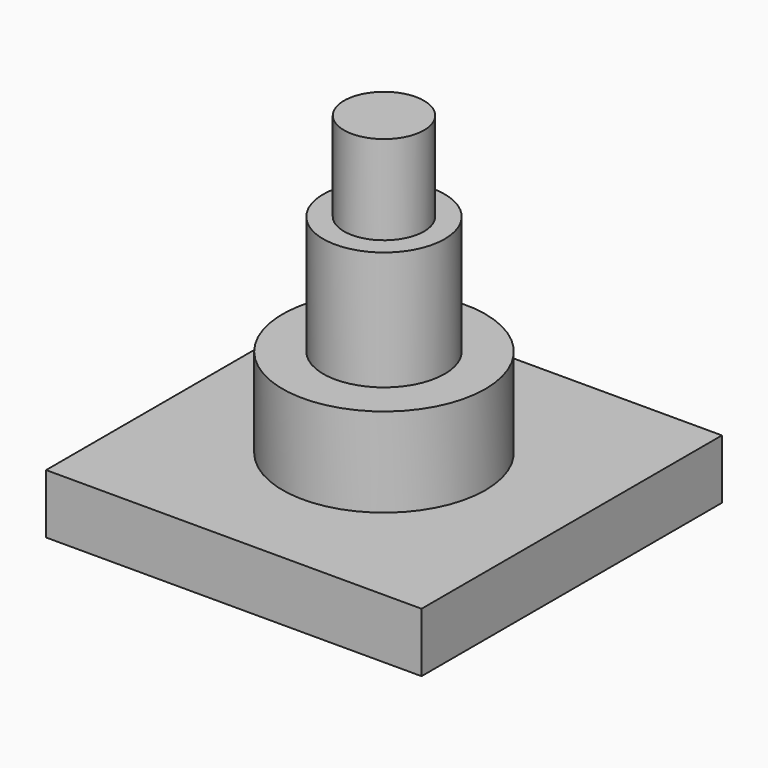
from build123d import *

# Parameters (mm, degrees)
F0_W     = 80.297806
F0_H     = 80.297806
F1_DEPTH = 12.7
F2_R     = 21.68697
F3_DEPTH = 19.05
F4_R     = 12.981603
F5_DEPTH = 25.4
F6_R     = 8.559501
F7_DEPTH = 19.05


with BuildPart() as f1:
    # F0 (on Top) → F1 (new body)
    with BuildSketch(Plane.XY):
        Rectangle(F0_W, F0_H)
    extrude(amount=F1_DEPTH)

    # F2 (on face) → F3 (join)
    with BuildSketch(Plane.XY.offset(12.7)):
        Circle(F2_R)
    extrude(amount=F3_DEPTH)

    # F4 (on face) → F5 (join)
    with BuildSketch(Plane.XY.offset(31.75)):
        Circle(F4_R)
    extrude(amount=F5_DEPTH)

    # F6 (on face) → F7 (join)
    with BuildSketch(Plane.XY.offset(57.15)):
        Circle(F6_R)
    extrude(amount=F7_DEPTH)


solid = f1.part
